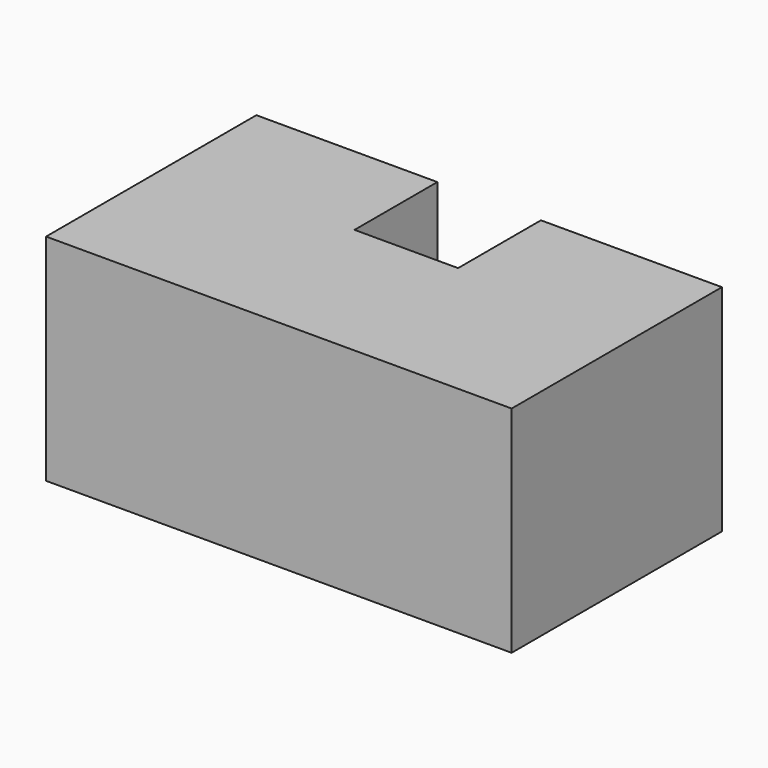
from build123d import *

# Parameters (mm, degrees)
F0_W     = 18.975
F0_H     = 33
F0_W_2   = 20.5
F1_DEPTH = 27
F2_W     = 13
F2_H     = 13
F3_DEPTH = 27.001
F4_W     = 1.5
F4_H     = 13
F5_DEPTH = 4.25


with BuildPart() as f1:
    # F0 (on Top) → F1 (new body)
    with BuildSketch(Plane.XY):
        with Locations((19.7375, 0)):
            Rectangle(F0_W, F0_H)
        Rectangle(F0_W_2, F0_H)
        with Locations((-19.7375, 0)):
            Rectangle(F0_W, F0_H)
    extrude(amount=F1_DEPTH)

    # F2 (on face) → F3 (cut, through all)
    with BuildSketch(Plane.XY):
        with Locations((0, 10)):
            Rectangle(F2_W, F2_H)
    extrude(amount=F3_DEPTH, mode=Mode.SUBTRACT)

    # F4 (on face) → F5 (join)
    with BuildSketch(Plane.XY):
        with Locations((-5.75, 10)):
            Rectangle(F4_W, F4_H)
        with Locations((5.75, 10)):
            Rectangle(F4_W, F4_H)
    extrude(amount=F5_DEPTH)


solid = f1.part
